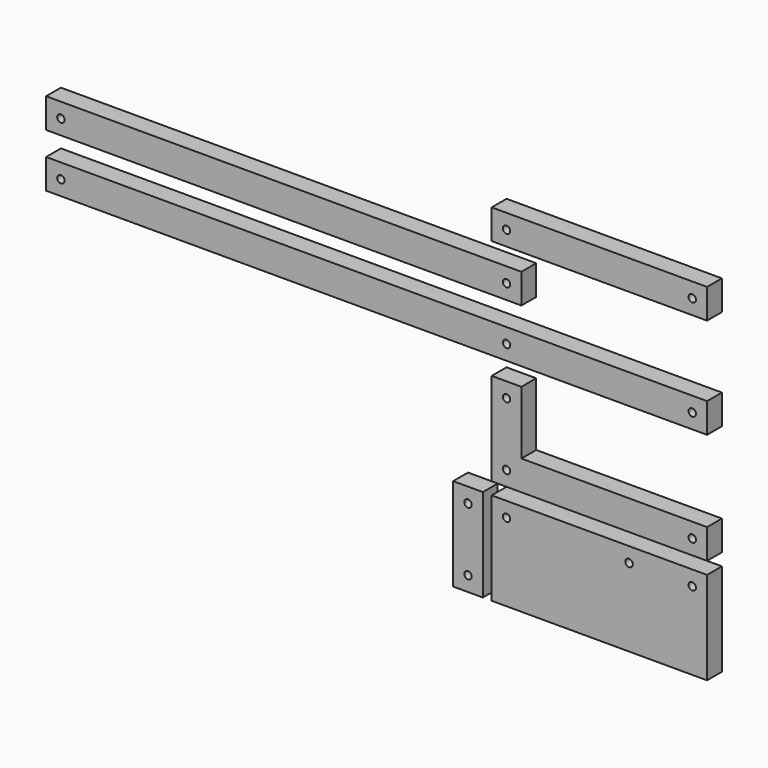
from build123d import *

# Parameters (mm, degrees)
F0_W     = 58
F0_H     = 8
F0_R     = 1
F1_DEPTH = 5
F0_W_2   = 128
F0_W_3   = 178
F0_W_4   = 8
F0_H_2   = 25


with BuildPart() as f1:
    # F0 (on Front) → F1 (new body)
    with BuildSketch(Plane.XZ):
        with Locations((25, 64.274541378)):
            Rectangle(F0_W, F0_H)
        with Locations((0, 64.274541378)):
            Circle(F0_R, mode=Mode.SUBTRACT)
        with Locations((50, 64.274541378)):
            Circle(F0_R, mode=Mode.SUBTRACT)
    extrude(amount=F1_DEPTH)


with BuildPart() as f1b:
    # F0 (on Front) → F1, piece 2 (new body)
    with BuildSketch(Plane.XZ):
        with Locations((-60, 51.6000244266)):
            Rectangle(F0_W_2, F0_H)
        with Locations((-120, 51.6000244266)):
            Circle(F0_R, mode=Mode.SUBTRACT)
        with Locations((0, 51.6000244266)):
            Circle(F0_R, mode=Mode.SUBTRACT)
    extrude(amount=F1_DEPTH)


with BuildPart() as f1c:
    # F0 (on Front) → F1, piece 3 (new body)
    with BuildSketch(Plane.XZ):
        with Locations((-35, 37.2000169107)):
            Rectangle(F0_W_3, F0_H)
        with Locations((-120, 37.2000169107)):
            Circle(F0_R, mode=Mode.SUBTRACT)
        with Locations((0, 37.2000169107)):
            Circle(F0_R, mode=Mode.SUBTRACT)
        with Locations((50, 37.2000169107)):
            Circle(F0_R, mode=Mode.SUBTRACT)
    extrude(amount=F1_DEPTH)


with BuildPart() as f1d:
    # F0 (on Front) → F1, piece 4 (new body)
    with BuildSketch(Plane.XZ):
        Polygon((4, 28.3301443327), (-4, 28.3301443327), (-4, 3.3301443327), (54, 3.3301443327), (54, 11.3301443327), (4, 11.3301443327), align=None)
        with Locations((0, 7.3301443327)):
            Circle(F0_R, mode=Mode.SUBTRACT)
        with Locations((50, 7.3301443327)):
            Circle(F0_R, mode=Mode.SUBTRACT)
        with Locations((0, 24.3301443327)):
            Circle(F0_R, mode=Mode.SUBTRACT)
    extrude(amount=F1_DEPTH)


with BuildPart() as f1e:
    # F0 (on Front) → F1, piece 5 (new body)
    with BuildSketch(Plane.XZ):
        with Locations((-10.3815753981, -12.5)):
            Rectangle(F0_W_4, F0_H_2)
        with Locations((-10.3815753981, -21)):
            Circle(F0_R, mode=Mode.SUBTRACT)
        with Locations((-10.3815753981, -4)):
            Circle(F0_R, mode=Mode.SUBTRACT)
    extrude(amount=F1_DEPTH)


with BuildPart() as f1f:
    # F0 (on Front) → F1, piece 6 (new body)
    with BuildSketch(Plane.XZ):
        with Locations((25, -12.5)):
            Rectangle(F0_W, F0_H_2)
        with Locations((0, -4)):
            Circle(F0_R, mode=Mode.SUBTRACT)
        with Locations((33, -4)):
            Circle(F0_R, mode=Mode.SUBTRACT)
        with Locations((50, -4)):
            Circle(F0_R, mode=Mode.SUBTRACT)
    extrude(amount=F1_DEPTH)


solid = Compound([f1.part, f1b.part, f1c.part, f1d.part, f1e.part, f1f.part])
